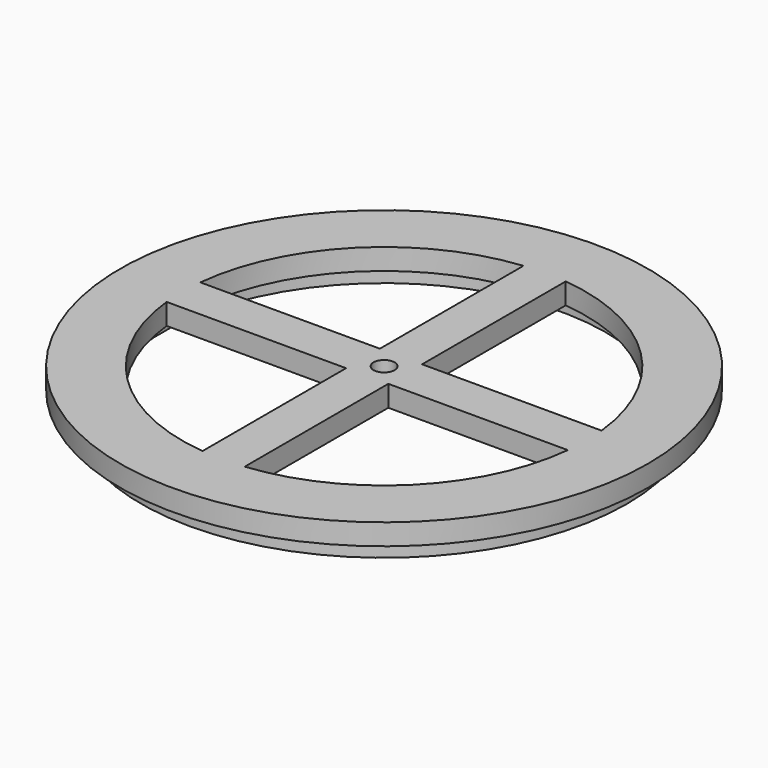
from build123d import *

# Parameters (mm, degrees)
SKETCH003_R     = 23
SKETCH003_R_2   = 1
PAD002_DEPTH    = 4
SKETCH005_R     = 25
SKETCH005_R_2   = 19.104973
PAD003_DEPTH    = 2
SKETCH006_R     = 21
POCKET003_DEPTH = 2


with BuildPart() as part:
    # Sketch003 → Pad002 (new body)
    with BuildSketch(Plane.XY.offset(108)):
        with Locations((35, 0)):
            Circle(SKETCH003_R)
        with Locations((35, 0)):
            Circle(SKETCH003_R_2, mode=Mode.SUBTRACT)
        with BuildLine():
            ThreePointArc((16, -2), (21.490744, -13.509256), (33, -19))
            Line((33, -2), (33, -19))
            Line((16, -2), (33, -2))
        make_face(mode=Mode.SUBTRACT)
        with BuildLine():
            Line((16, 2), (33, 2))
            Line((33, 2), (33, 19))
            ThreePointArc((33, 19), (21.490744, 13.509256), (16, 2))
        make_face(mode=Mode.SUBTRACT)
        with BuildLine():
            ThreePointArc((54, 2), (48.509256, 13.509256), (37, 19))
            Line((37, 2), (37, 19))
            Line((37, 2), (54, 2))
        make_face(mode=Mode.SUBTRACT)
        with BuildLine():
            Line((37, -2), (37, -19))
            ThreePointArc((37, -19), (48.509256, -13.509256), (54, -2))
            Line((37, -2), (54, -2))
        make_face(mode=Mode.SUBTRACT)
    extrude(amount=PAD002_DEPTH)

    # Sketch005 (on Face16 of Pad002) → Pad003 (join)
    with BuildSketch(Plane.XY.offset(112)):
        with Locations((35, 0)):
            Circle(SKETCH005_R)
        with Locations((35, 0)):
            Circle(SKETCH005_R_2, mode=Mode.SUBTRACT)
    extrude(amount=-PAD003_DEPTH)

    # Sketch006 (on Face2 of Pad003) → Pocket003 (cut)
    with BuildSketch(Plane(origin=(0, 0, 108), x_dir=(1, 0, 0), z_dir=(0, 0, -1))):
        with Locations((35, 0)):
            Circle(SKETCH006_R)
    extrude(amount=-POCKET003_DEPTH, mode=Mode.SUBTRACT)


solid = part.part
